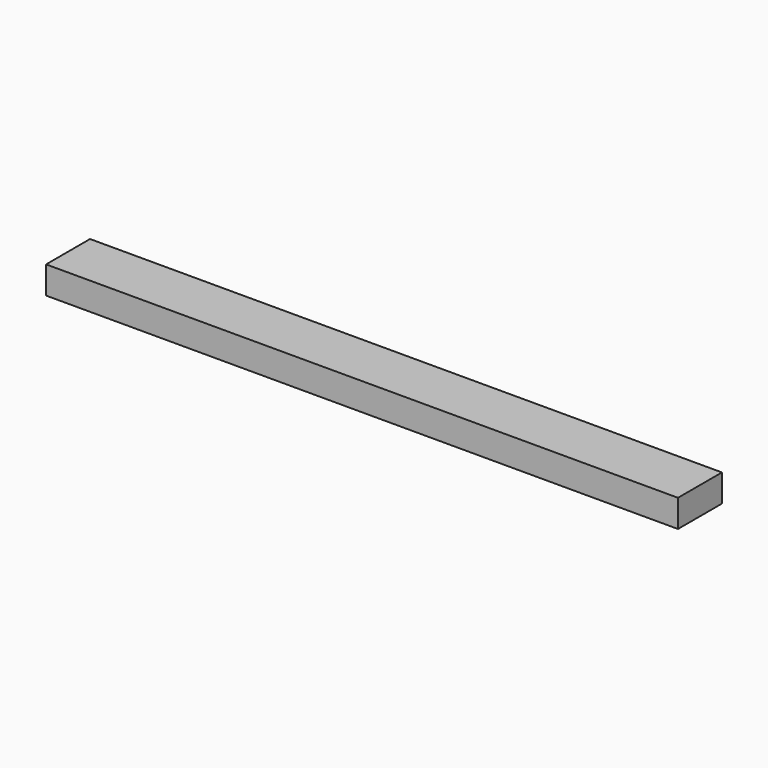
from build123d import *

# Parameters (mm, degrees)
F0_W     = 584.2
F0_H     = 25.4
F1_DEPTH = 50.8
F2_R     = 12.7
F3_DEPTH = 6.35


with BuildPart() as f1:
    # F0 (on Front) → F1 (new body)
    with BuildSketch(Plane.XZ):
        with Locations((292.1, 12.7)):
            Rectangle(F0_W, F0_H)
    extrude(amount=F1_DEPTH)

    # F2 (on face) → F3 (cut)
    with BuildSketch(Plane(origin=(0, 0, 0), x_dir=(1, 0, 0), z_dir=(0, 0, -1))):
        with Locations((25.4, 25.4)):
            Circle(F2_R)
        with Locations((292.1, 25.4)):
            Circle(F2_R)
        with Locations((558.8, 25.4)):
            Circle(F2_R)
    extrude(amount=-F3_DEPTH, mode=Mode.SUBTRACT)


solid = f1.part
